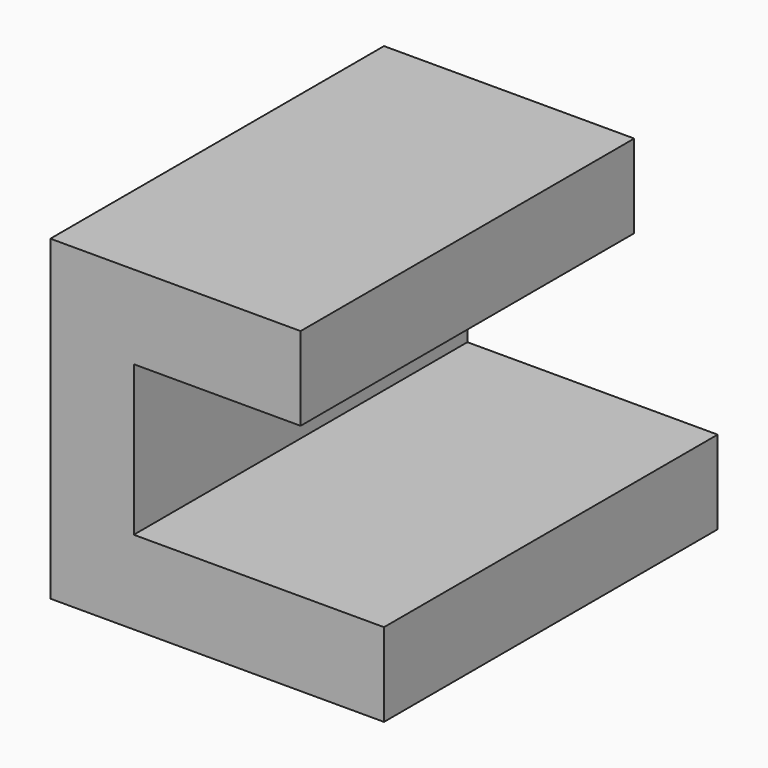
from build123d import *

# Parameters (mm, degrees)
F0_W     = 10
F0_H     = 10
F1_DEPTH = 25


with BuildPart() as f1:
    # F0 (on Front) → F1 (new body, symmetric)
    with BuildSketch(Plane.XZ):
        Polygon((15, 28), (15, 38), (-15, 38), (-15, 0), (15, 0), (15, 10), (-5, 10), (-5, 28), align=None)
        with Locations((20, 5)):
            Rectangle(F0_W, F0_H)
    extrude(amount=F1_DEPTH, both=True)


solid = f1.part
